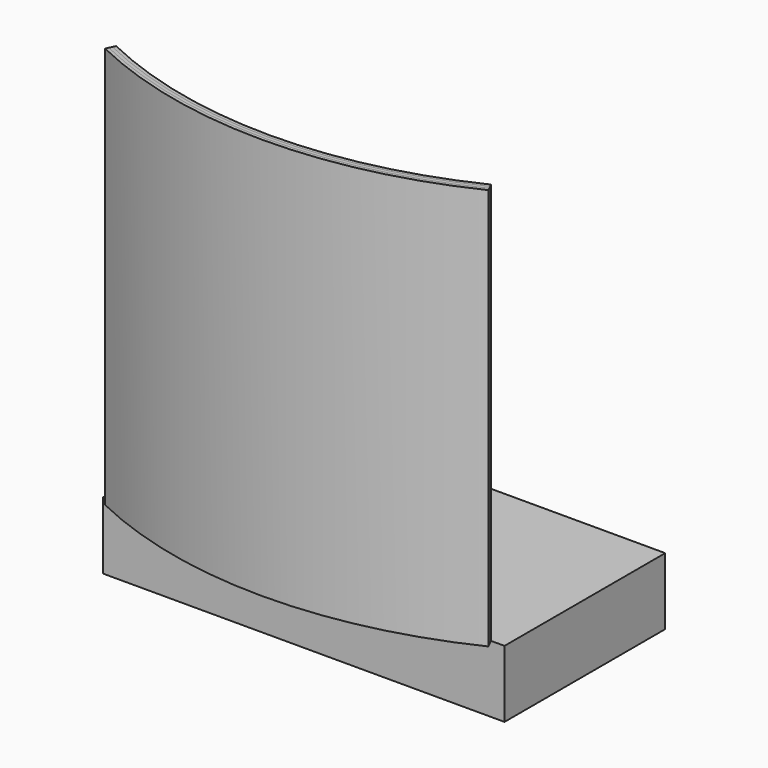
from build123d import *

# Parameters (mm, degrees)
F0_W     = 150
F0_H     = 75
F1_DEPTH = 25
F3_DEPTH = 150
F5_DEPTH = 150
F7_DEPTH = 150
F10_T    = -1.5


with BuildPart() as f1:
    # F0 (on Top) → F1 (new body)
    with BuildSketch(Plane.XY):
        Rectangle(F0_W, F0_H)
    extrude(amount=F1_DEPTH)


with BuildPart() as f3:
    # F2 (on face) → F3 (new body)
    with BuildSketch(Plane.XY.offset(25)):
        with BuildLine():
            ThreePointArc((70, -37.5), (0, -53.5), (-70, -37.5))
            Line((-70, -37.5), (-70.5213343677, -38.5808378588))
            ThreePointArc((-70.5213343677, -38.5808378588), (0, -54.7), (70.5213343677, -38.5808378588))
            Line((70.5213343677, -38.5808378588), (70, -37.5))
        make_face()
    extrude(amount=F3_DEPTH)


with BuildPart() as f5:
    # F4 (on face) → F5 (new body)
    with BuildSketch(Plane.XY.offset(25)):
        with BuildLine():
            ThreePointArc((70.5213343677, -38.5808378588), (0, -54.7), (-70.5213343677, -38.5808378588))
            Line((-70.5213343677, -38.5808378588), (-71.0426687355, -39.6616757176))
            ThreePointArc((-71.0426687355, -39.6616757176), (0, -55.9), (71.0426687355, -39.6616757176))
            Line((71.0426687355, -39.6616757176), (70.5213343677, -38.5808378588))
        make_face()
    extrude(amount=F5_DEPTH)


with BuildPart() as f7:
    # F6 (on face) → F7 (new body)
    with BuildSketch(Plane.XY.offset(25)):
        with BuildLine():
            ThreePointArc((71.0426687355, -39.6616757176), (0, -55.9), (-71.0426687355, -39.6616757176))
            Line((-71.0426687355, -39.6616757176), (-71.5640031032, -40.7425135764))
            ThreePointArc((-71.5640031032, -40.7425135764), (0, -57.1), (71.5640031032, -40.7425135764))
            Line((71.5640031032, -40.7425135764), (71.0426687355, -39.6616757176))
        make_face()
    extrude(amount=F7_DEPTH)


with BuildPart() as f9:
    # F8 (on Front) → F9 (revolve)
    with BuildSketch(Plane.XZ):
        with BuildLine():
            Line((0, 78.8208022714), (0, 26))
            Line((0, 26), (20, 26))
            add(Edge.make_bspline(
                [(20, 26), (25.8251146772, 32.2698097017), (37.052360313, 46.9885975137), (21.7360878614, 70.29013323), (27.4611583794, 76.5103562412), (29.650805518, 78.8208022714)],
                knots=[0, 0, 0, 0, 0.3865496862, 0.7612191828, 1, 1, 1, 1], degree=3))
            Line((29.650805518, 78.8208022714), (0, 78.8208022714))
        make_face()
    revolve(axis=Axis((0, 0, 86.6440743882), (0, 0, 1)))

    # F10
    f10_openings = [f9.faces().sort_by_distance(p)[0] for p in [
        (0, 0, 78.820802),
    ]]
    offset(amount=F10_T, openings=f10_openings)


solid = Compound([f1.part, f3.part, f5.part, f7.part, f9.part])
